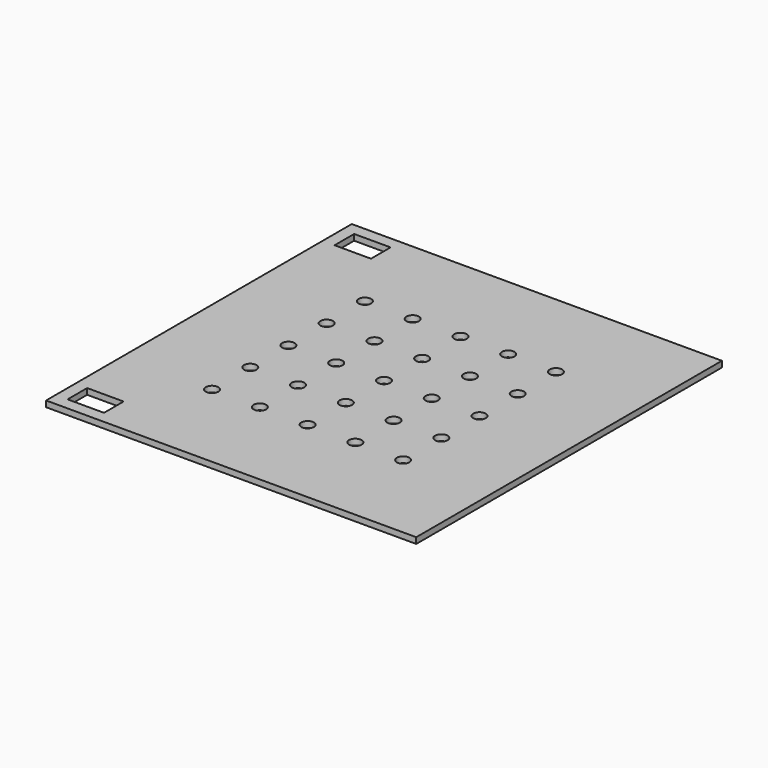
from build123d import *

# Parameters (mm, degrees)
SKETCH_W        = 155
SKETCH_H        = 160
PAD_DEPTH       = 2.5
SKETCH001_W     = 15.25
SKETCH001_H     = 10.25
POCKET_DEPTH    = 2.5
SKETCH002_R     = 2.625
POCKET001_DEPTH = 2.5


with BuildPart() as part:
    # Sketch → Pad (new body)
    with BuildSketch(Plane.XY):
        with Locations((0.10674, -30.909095)):
            Rectangle(SKETCH_W, SKETCH_H)
    extrude(amount=PAD_DEPTH)

    # Sketch001 (on Face6 of Pad) → Pocket (cut)
    with BuildSketch(Plane.XY.offset(2.5)):
        with Locations((-64.76826, 38.965905)):
            Rectangle(SKETCH001_W, SKETCH001_H)
        with Locations((-64.76826, -100.784095)):
            Rectangle(SKETCH001_W, SKETCH001_H)
    extrude(amount=-POCKET_DEPTH, mode=Mode.SUBTRACT)

    # Sketch002 (on Face5 of Pocket) → Pocket001 (cut)
    with BuildSketch(Plane.XY.offset(2.5)):
        with Locations((-19.89326, -30.909095)):
            Circle(SKETCH002_R)
        with Locations((-39.89326, -30.909095)):
            Circle(SKETCH002_R)
        with Locations((0.10674, -30.909095)):
            Circle(SKETCH002_R)
        with Locations((20.10674, -30.909095)):
            Circle(SKETCH002_R)
        with Locations((40.10674, -30.909095)):
            Circle(SKETCH002_R)
        with Locations((-39.89326, -10.909095)):
            Circle(SKETCH002_R)
        with Locations((-19.89326, -10.909095)):
            Circle(SKETCH002_R)
        with Locations((0.10674, -10.909095)):
            Circle(SKETCH002_R)
        with Locations((20.10674, -10.909095)):
            Circle(SKETCH002_R)
        with Locations((40.10674, -10.909095)):
            Circle(SKETCH002_R)
        with Locations((-39.89326, -50.909095)):
            Circle(SKETCH002_R)
        with Locations((-19.89326, -50.909095)):
            Circle(SKETCH002_R)
        with Locations((0.10674, -50.909095)):
            Circle(SKETCH002_R)
        with Locations((20.10674, -50.909095)):
            Circle(SKETCH002_R)
        with Locations((40.10674, -50.909095)):
            Circle(SKETCH002_R)
        with Locations((-39.89326, -70.909095)):
            Circle(SKETCH002_R)
        with Locations((-19.89326, -70.909095)):
            Circle(SKETCH002_R)
        with Locations((0.10674, -70.909095)):
            Circle(SKETCH002_R)
        with Locations((20.10674, -70.909095)):
            Circle(SKETCH002_R)
        with Locations((40.10674, -70.909095)):
            Circle(SKETCH002_R)
        with Locations((-39.89326, 9.090905)):
            Circle(SKETCH002_R)
        with Locations((-19.89326, 9.090905)):
            Circle(SKETCH002_R)
        with Locations((0.10674, 9.090905)):
            Circle(SKETCH002_R)
        with Locations((20.10674, 9.090905)):
            Circle(SKETCH002_R)
        with Locations((40.10674, 9.090905)):
            Circle(SKETCH002_R)
    extrude(amount=-POCKET001_DEPTH, mode=Mode.SUBTRACT)


solid = part.part
